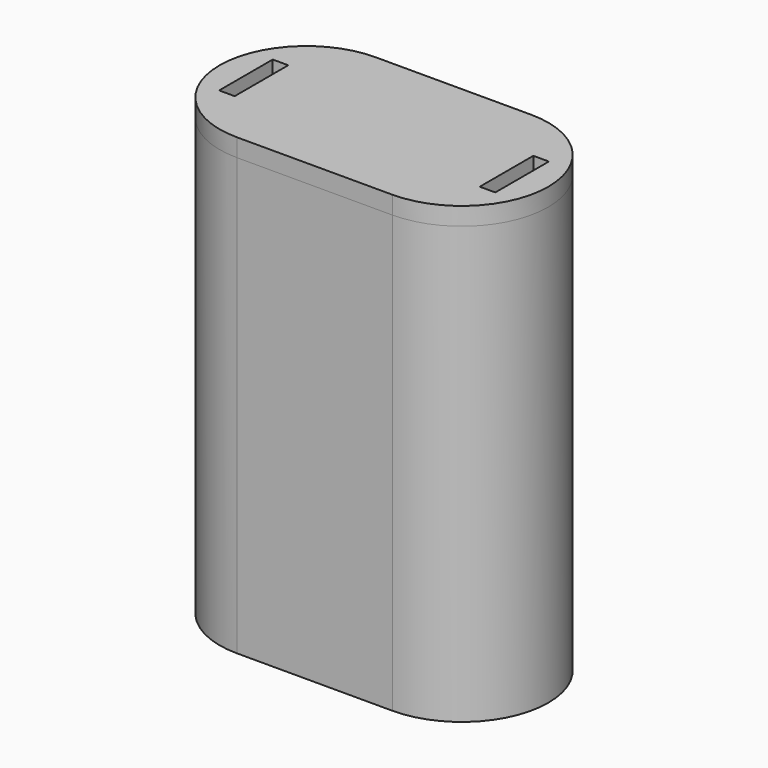
from build123d import *

# Parameters (mm, degrees)
F0_W     = 13
F0_H     = 14.5
F1_DEPTH = 36.5
F2_T     = -1
F4_DEPTH = 1.5
F6_DEPTH = 1.5
F7_W     = 1.3
F7_H     = 5.6
F8_DEPTH = 3


with BuildPart() as f1:
    # F0 (on Top) → F1 (new body)
    with BuildSketch(Plane.XY):
        Rectangle(F0_W, F0_H)
        with BuildLine():
            Line((6.5, 7.25), (6.5, -7.25))
            ThreePointArc((6.5, -7.25), (13.75, 0), (6.5, 7.25))
        make_face()
        with BuildLine():
            ThreePointArc((-6.5, 7.25), (-13.75, 0), (-6.5, -7.25))
            Line((-6.5, -7.25), (-6.5, 7.25))
        make_face()
    extrude(amount=F1_DEPTH)

    # F2
    f2_openings = [f1.faces().sort_by_distance(p)[0] for p in [
        (0, 0, 36.5),
    ]]
    offset(amount=F2_T, openings=f2_openings)


with BuildPart() as f4:
    # F3 (on face) → F4 (new body)
    with BuildSketch(Plane.XY.offset(36.5)):
        with BuildLine():
            Line((-6.5, -7.25), (6.5, -7.25))
            ThreePointArc((6.5, -7.25), (13.75, 0), (6.5, 7.25))
            Line((6.5, 7.25), (-6.5, 7.25))
            ThreePointArc((-6.5, 7.25), (-13.75, 0), (-6.5, -7.25))
        make_face()
    extrude(amount=F4_DEPTH)

    # F5 (on face) → F6 (join)
    with BuildSketch(Plane(origin=(0, 0, 36.5), x_dir=(1, 0, 0), z_dir=(0, 0, -1))):
        with BuildLine():
            ThreePointArc((-6.5, 6.15), (-12.65, 0), (-6.5, -6.15))
            Line((-6.5, -6.15), (6.5, -6.15))
            ThreePointArc((6.5, -6.15), (12.65, 0), (6.5, 6.15))
            Line((6.5, 6.15), (-6.5, 6.15))
        make_face()
    extrude(amount=F6_DEPTH)

    # F7 (on face) → F8 (cut)
    with BuildSketch(Plane.XY.offset(38)):
        with Locations((-10.9, 0)):
            Rectangle(F7_W, F7_H)
        with Locations((10.9, 0)):
            Rectangle(F7_W, F7_H)
    extrude(amount=-F8_DEPTH, mode=Mode.SUBTRACT)


solid = Compound([f1.part, f4.part])
